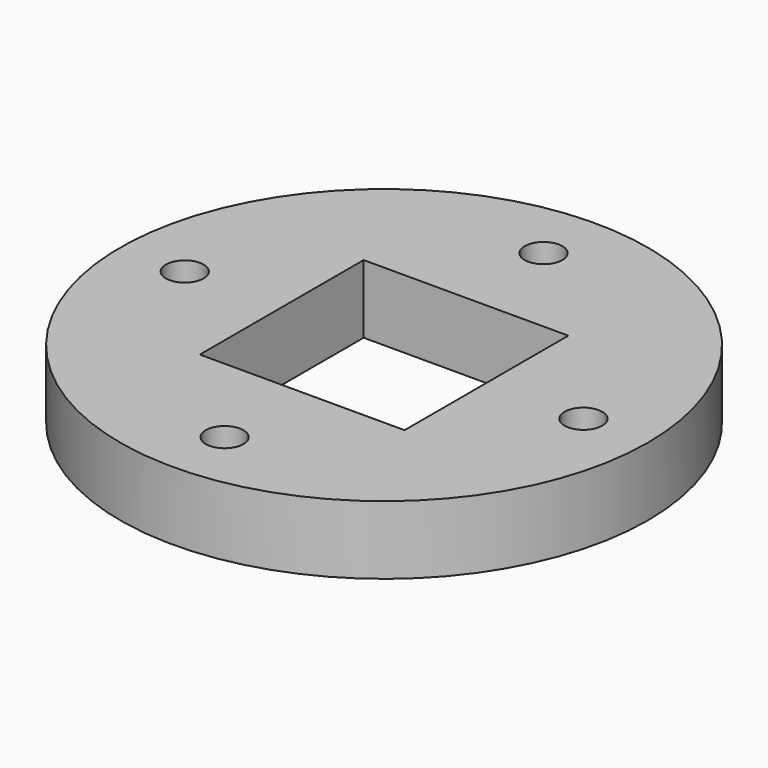
from build123d import *

# Parameters (mm, degrees)
F0_R     = 24.5
F0_R_2   = 1.75
F0_W     = 19
F0_H     = 19
F1_DEPTH = 6.35


with BuildPart() as f1:
    # F0 (on Top) → F1 (new body)
    with BuildSketch(Plane.XY):
        Circle(F0_R)
        with Locations((0, -18.5)):
            Circle(F0_R_2, mode=Mode.SUBTRACT)
        with Locations((-18.5, 0)):
            Circle(F0_R_2, mode=Mode.SUBTRACT)
        Rectangle(F0_W, F0_H, mode=Mode.SUBTRACT)
        with Locations((18.5, 0)):
            Circle(F0_R_2, mode=Mode.SUBTRACT)
        with Locations((0, 18.5)):
            Circle(F0_R_2, mode=Mode.SUBTRACT)
    extrude(amount=F1_DEPTH)


solid = f1.part
